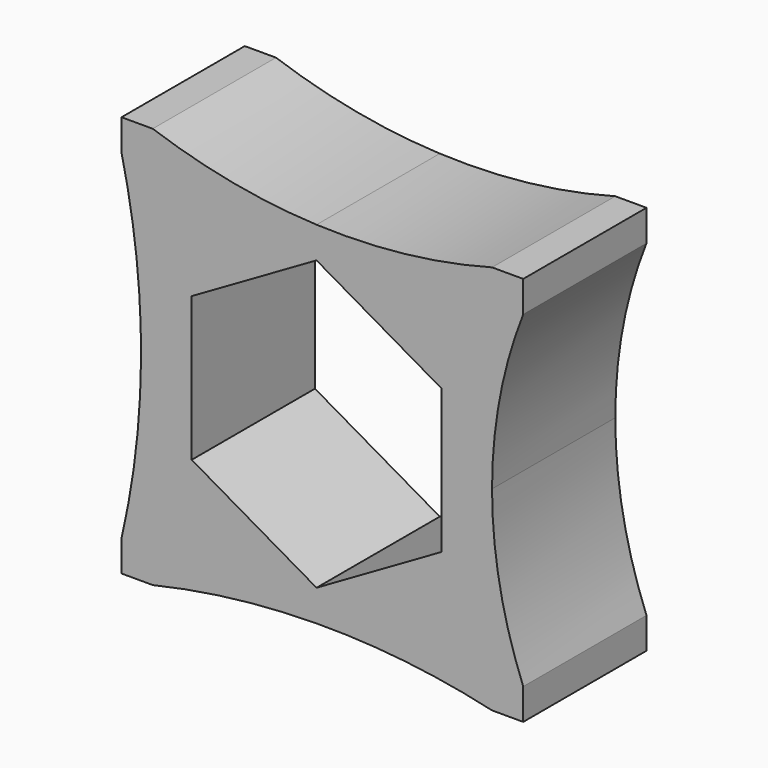
from build123d import *

# Parameters (mm, degrees)
F1_DEPTH = 10.033


with BuildPart() as f1:
    # F0 (on Front) → F1 (new body)
    with BuildSketch(Plane.XZ):
        with BuildLine():
            Line((11.43, 0), (8.128, 0))
            Line((8.128, 0), (8.128, -4.692703))
            Line((8.128, -4.692703), (0, -9.385406))
            Line((0, -9.385406), (-8.128, -4.692703))
            Line((-8.128, -4.692703), (-8.128, 0))
            Line((-8.128, 0), (-10.16, 0))
            Line((-10.16, 0), (-11.43, 0))
            ThreePointArc((-11.43, 0), (-11.769576, -5.36917), (-12.7, -10.668))
            Line((-12.7, -10.668), (-12.7, -12.7))
            Line((-12.7, -12.7), (-10.668, -12.7))
            ThreePointArc((-10.668, -12.7), (-5.36917, -11.769576), (0, -11.43))
            ThreePointArc((0, -11.43), (5.752665, -11.726018), (11.43, -12.7))
            Line((11.43, -12.7), (13.462, -12.7))
            Line((13.462, -12.7), (13.462, -11.684))
            Line((13.462, -11.684), (13.462, -10.668))
            ThreePointArc((13.462, -10.668), (11.942526, -5.4299), (11.43, 0))
        make_face()
        with BuildLine():
            Line((8.128, 4.692703), (8.128, 0))
            Line((8.128, 0), (11.43, 0))
            ThreePointArc((11.43, 0), (11.942526, 5.4299), (13.462, 10.668))
            Line((13.462, 10.668), (13.462, 11.684))
            Line((13.462, 11.684), (13.462, 12.7))
            Line((13.462, 12.7), (11.43, 12.7))
            ThreePointArc((11.43, 12.7), (5.763913, 11.624785), (0, 11.43))
            ThreePointArc((0, 11.43), (-5.407854, 12.058267), (-10.668, 13.462))
            Line((-10.668, 13.462), (-12.7, 13.462))
            Line((-12.7, 13.462), (-12.7, 11.43))
            ThreePointArc((-12.7, 11.43), (-11.726018, 5.752665), (-11.43, 0))
            Line((-11.43, 0), (-10.16, 0))
            Line((-10.16, 0), (-8.128, 0))
            Line((-8.128, 0), (-8.128, 4.692703))
            Line((-8.128, 4.692703), (0, 9.385406))
            Line((0, 9.385406), (8.128, 4.692703))
        make_face()
    extrude(amount=F1_DEPTH)


solid = f1.part
